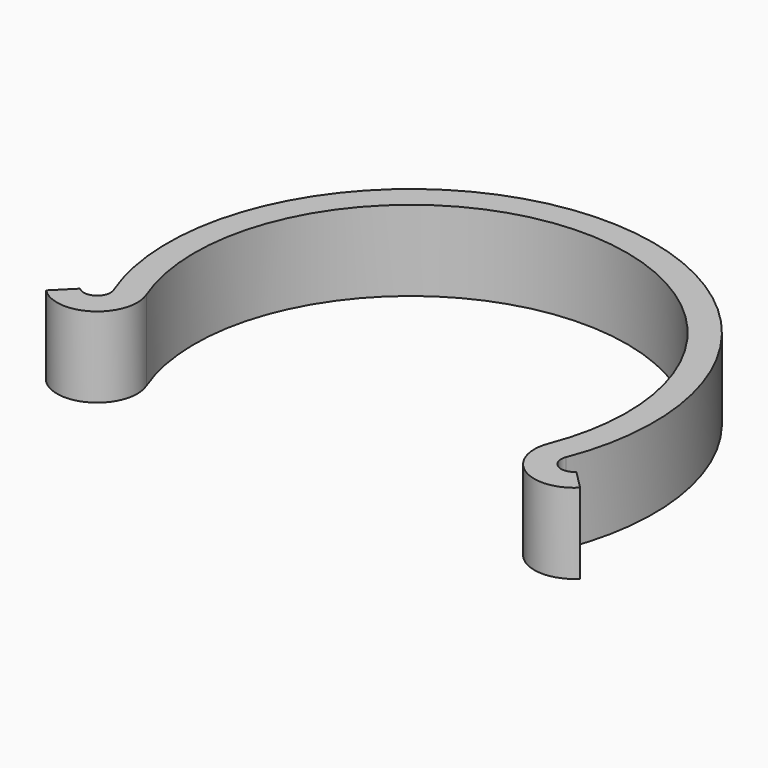
from build123d import *

# Parameters (mm, degrees)
F1_DEPTH = 9.525


with BuildPart() as f1:
    # F0 (on Top) → F1 (new body)
    with BuildSketch(Plane.XY):
        with BuildLine():
            ThreePointArc((-23.877261, -9.372365), (0, 25.650825), (23.877261, -9.372365))
            ThreePointArc((23.877261, -9.372365), (25.701617, -15.096881), (31.678066, -14.480096))
            Line((31.678066, -14.480096), (29.433001, -12.235032))
            ThreePointArc((29.433001, -12.235032), (27.440852, -12.440627), (26.832733, -10.532455))
            ThreePointArc((26.832733, -10.532455), (0, 28.825825), (-26.832733, -10.532455))
            ThreePointArc((-26.832733, -10.532455), (-27.440852, -12.440627), (-29.433001, -12.235032))
            Line((-29.433001, -12.235032), (-31.678066, -14.480096))
            ThreePointArc((-31.678066, -14.480096), (-25.701617, -15.096881), (-23.877261, -9.372365))
        make_face()
    extrude(amount=F1_DEPTH)


solid = f1.part
